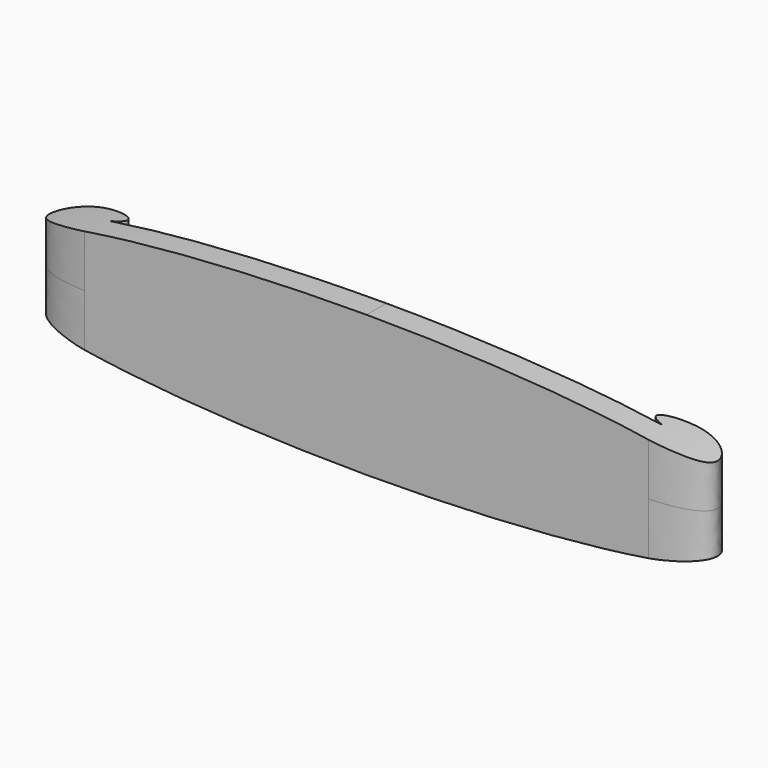
from build123d import *

# Parameters (mm, degrees)
F1_DEPTH      = 25
F1_DEPTH_BACK = 25
F3_DEPTH      = 15.8610146991


with BuildPart() as f1:
    # F0 (on Top) → F1 (new body, two sides)
    with BuildSketch(Plane.XY) as f1_sk:
        with BuildLine():
            Line((0, 8.7716327729), (0, 0))
            Line((0, 0), (100, 0))
            add(Edge.make_bspline(
                [(100, 0), (103.3047086604, 0), (126.0781351696, 2.0802962722), (110.7634703086, 21.3984059812), (87.918486092, 11.1951300923), (97.9303441448, 8.7716327729)],
                knots=[0, 0, 0, 0, 0.3730608547, 0.7195326557, 1, 1, 1, 1], degree=3))
            Line((97.9303441448, 8.7716327729), (0, 8.7716327729))
        make_face()
    extrude(amount=F1_DEPTH)
    extrude(f1_sk.sketch, amount=-F1_DEPTH_BACK)

    # F2 (on Front) → F3 (cut, through all)
    with BuildSketch(Plane.XZ):
        with BuildLine():
            Line((149.6758162975, 30.9919379652), (0, 25))
            add(Edge.make_bspline(
                [(0, 25), (53.5370744765, 25), (137.6725584269, 19.814517349), (147.0988926594, 0)],
                knots=[0, 0, 0, 0, 149.2081908664, 149.2081908664, 149.2081908664, 149.2081908664], degree=3))
            Line((147.0988926594, 0), (149.6758162975, 30.9919379652))
        make_face()
        with BuildLine():
            Line((149.6758162975, -30.9919379652), (147.0988926594, 0))
            add(Edge.make_bspline(
                [(0, -25), (53.5370744765, -25), (137.6725584269, -19.814517349), (147.0988926594, 0)],
                knots=[0, 0, 0, 0, 149.2081908664, 149.2081908664, 149.2081908664, 149.2081908664], degree=3))
            Line((0, -25), (149.6758162975, -30.9919379652))
        make_face()
    extrude(amount=-F3_DEPTH, mode=Mode.SUBTRACT)

    # F4: F1 across plane


with BuildPart() as f1_1:
    add(f1.part)
    add(f1.part.mirror(Plane.YZ))


solid = f1_1.part
